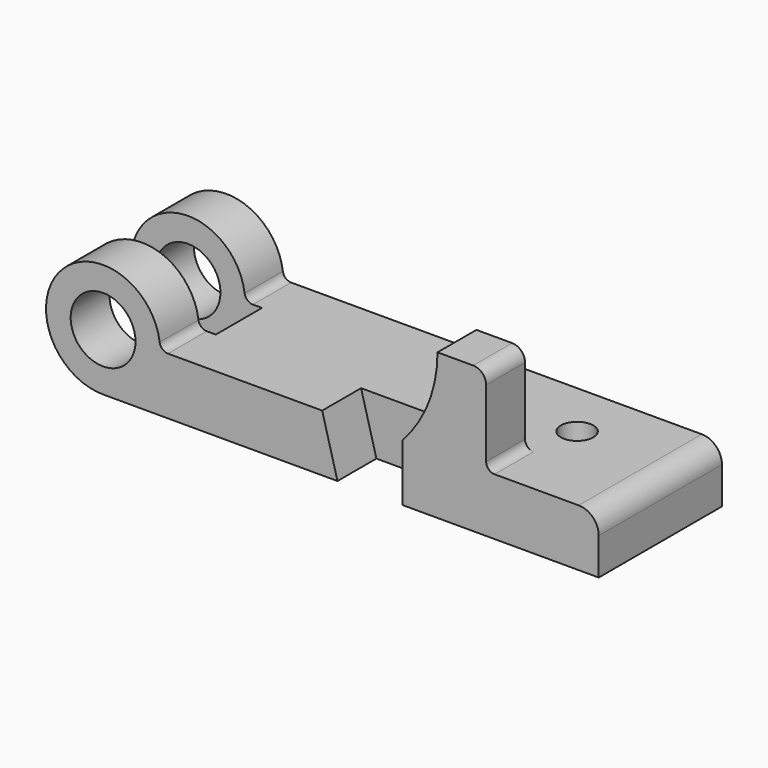
from build123d import *

# Parameters (mm, degrees)
F0_R     = 12.7
F1_DEPTH = 60.325
F2_W     = 51.3197111964
F2_H     = 22.6086642011
F3_DEPTH = 55.88
F4_DEPTH = 19.05
F5_DEPTH = 19.05
F6_R     = 6.35
F7_DEPTH = 22.353


with BuildPart() as f1:
    # F0 (on Front) → F1 (new body)
    with BuildSketch(Plane.XZ):
        with BuildLine():
            ThreePointArc((-47.1229317725, 0), (-49.3023607466, 0.8214167326), (-50.3974654162, 2.876990099))
            ThreePointArc((-50.3974654162, 2.876990099), (-89.3551798917, 14.7530576713), (-72.5635393124, -22.352))
            Line((-72.5635393124, -22.352), (19.2828606876, -22.352))
            Line((19.2828606876, -22.352), (13.2884606876, 0))
            Line((13.2884606876, 0), (-47.1229317725, 0))
        make_face()
        with Locations((-72.5635393124, 0)):
            Circle(F0_R, mode=Mode.SUBTRACT)
        Polygon((13.2884606876, 0), (19.2828606876, -22.352), (44.6828606876, -22.352), (44.6828606876, 0), align=None)
        with BuildLine():
            Line((44.6828606876, 0), (44.6828606876, -22.352))
            Line((44.6828606876, -22.352), (121.6448606876, -22.352))
            Line((121.6448606876, -22.352), (121.6448606876, -7.874))
            ThreePointArc((121.6448606876, -7.874), (119.3386194827, -2.3062412049), (113.7708606876, 0))
            Line((113.7708606876, 0), (80.8270606876, 0))
            Line((80.8270606876, 0), (44.6828606876, 0))
        make_face()
    extrude(amount=-F1_DEPTH)

    # F2 (on Top) → F3 (cut, symmetric)
    with BuildSketch(Plane.XY):
        with Locations((-69.2556837142, 30.3035321005)):
            Rectangle(F2_W, F2_H)
    extrude(amount=F3_DEPTH, both=True, mode=Mode.SUBTRACT)

    # F0 (on Front) → F4 (cut)
    with BuildSketch(Plane.XZ):
        Polygon((13.2884606876, 0), (19.2828606876, -22.352), (44.6828606876, -22.352), (44.6828606876, 0), align=None)
    extrude(amount=-F4_DEPTH, mode=Mode.SUBTRACT)

    # F0 (on Front) → F5 (join)
    with BuildSketch(Plane.XZ):
        with BuildLine():
            ThreePointArc((58.4750606876, 34.798), (54.9008760492, 16.0823576341), (44.6828606876, 0))
            Line((44.6828606876, 0), (80.8270606876, 0))
            ThreePointArc((80.8270606876, 0), (78.4921940962, 0.9671334085), (77.5250606876, 3.302))
            Line((77.5250606876, 3.302), (77.5250606876, 29.718))
            ThreePointArc((77.5250606876, 29.718), (76.0371631361, 33.3101024484), (72.4450606876, 34.798))
            Line((72.4450606876, 34.798), (58.4750606876, 34.798))
        make_face()
    extrude(amount=-F5_DEPTH)

    # F6 (on Top) → F7 (cut, through all)
    with BuildSketch(Plane.XY):
        with Locations((82.7828606876, 37.973)):
            Circle(F6_R)
    extrude(amount=-F7_DEPTH, mode=Mode.SUBTRACT)


solid = f1.part
